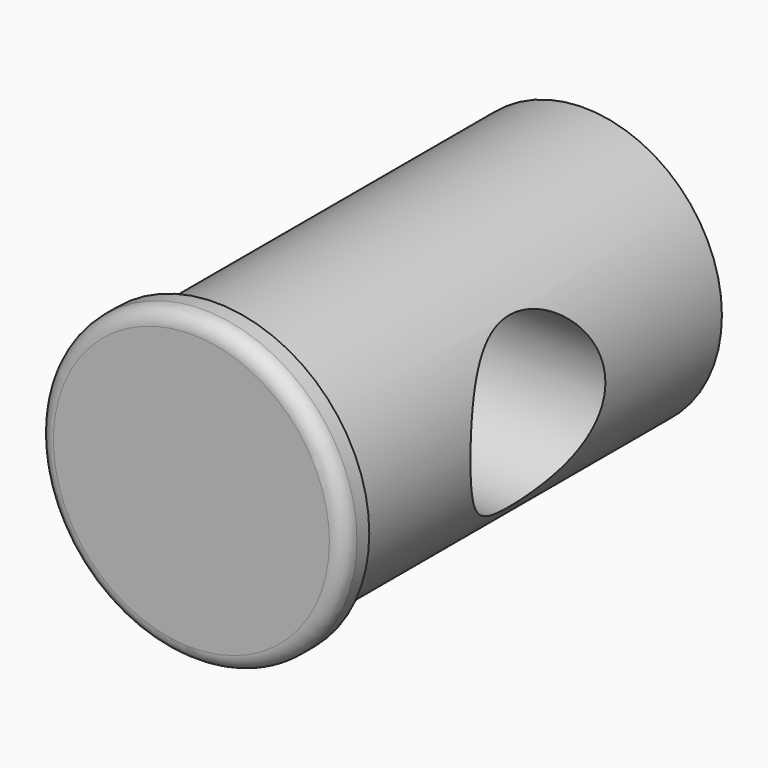
from build123d import *

# Parameters (mm, degrees)
F0_R     = 2.286
F1_DEPTH = 8.128
F0_R_2   = 2.54
F2_DEPTH = 0.508
F3_R     = 1.397
F4_DEPTH = 12.7
F5_R     = 0.254


with BuildPart() as f1:
    # F0 (on Front) → F1 (new body)
    with BuildSketch(Plane.XZ):
        Circle(F0_R)
    extrude(amount=-F1_DEPTH)

    # F0 (on Front) → F2 (join)
    with BuildSketch(Plane.XZ):
        Circle(F0_R_2)
        Circle(F0_R, mode=Mode.SUBTRACT)
    extrude(amount=-F2_DEPTH)

    # F3 (on Right) → F4 (cut, symmetric)
    with BuildSketch(Plane.YZ):
        with Locations((4.318, 0)):
            Circle(F3_R)
    extrude(amount=F4_DEPTH, both=True, mode=Mode.SUBTRACT)

    # F5
    f5_edges = [f1.edges().sort_by_distance(p)[0] for p in [
        (-2.54, 0, 0),
    ]]
    fillet(f5_edges, radius=F5_R)


solid = f1.part
